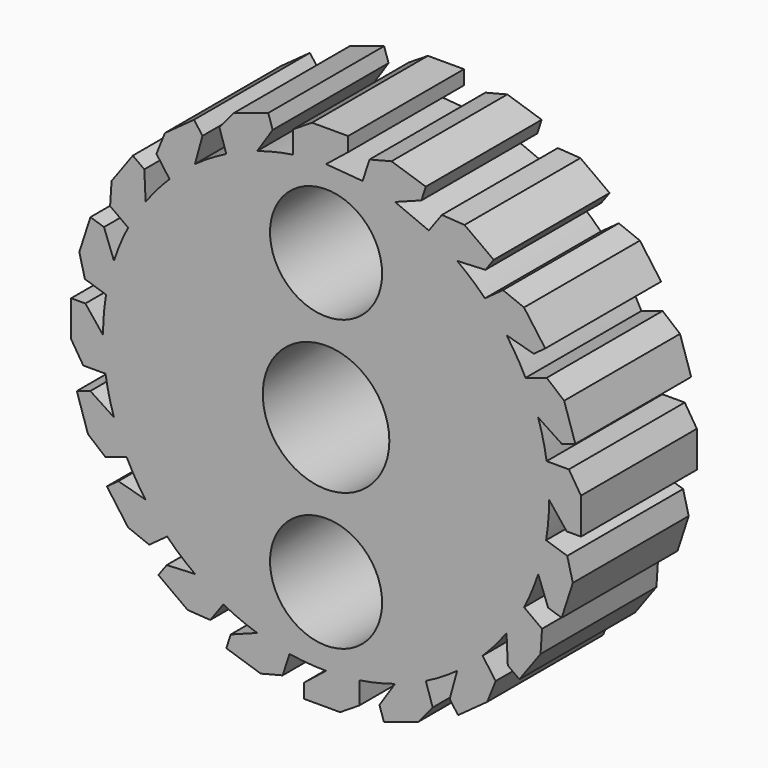
from build123d import *

# Parameters (mm, degrees)
F0_R     = 9.675
F0_R_2   = 10.925
F1_DEPTH = 25


with BuildPart() as f1:
    # F0 (on Front) → F1 (new body)
    with BuildSketch(Plane.XZ):
        with BuildLine():
            Line((3.806459, 44), (-2.426446, 44))
            Line((-2.426446, 44), (-5.736627, 41.90996))
            Line((-5.736627, 41.90996), (-5.736627, 38.070213))
            ThreePointArc((-5.736627, 38.070213), (-8.846834, 37.469768), (-11.897154, 36.615676))
            Line((-11.897154, 36.615676), (-9.217365, 40.686093))
            Line((-9.217365, 40.686093), (-9.97659, 43.022747))
            Line((-9.97659, 43.022747), (-15.904435, 41.096674))
            Line((-15.904435, 41.096674), (-18.406746, 38.086026))
            Line((-18.406746, 38.086026), (-17.220199, 34.434209))
            ThreePointArc((-17.220199, 34.434209), (-19.992635, 32.902045), (-22.629732, 31.147154))
            Line((-22.629732, 31.147154), (-21.338929, 35.846452))
            Line((-21.338929, 35.846452), (-22.783061, 37.834129))
            Line((-22.783061, 37.834129), (-27.825587, 34.170519))
            Line((-27.825587, 34.170519), (-29.275085, 30.533966))
            Line((-29.275085, 30.533966), (-27.018138, 27.427545))
            ThreePointArc((-27.018138, 27.427545), (-29.181416, 25.11364), (-31.147154, 22.629732))
            Line((-31.147154, 22.629732), (-31.37169, 27.49791))
            Line((-31.37169, 27.49791), (-33.359367, 28.942042))
            Line((-33.359367, 28.942042), (-37.022977, 23.899515))
            Line((-37.022977, 23.899515), (-37.277775, 19.993028))
            Line((-37.277775, 19.993028), (-34.171354, 17.736081))
            ThreePointArc((-34.171354, 17.736081), (-35.513718, 14.866938), (-36.615676, 11.897154))
            Line((-36.615676, 11.897154), (-38.333572, 16.457681))
            Line((-38.333572, 16.457681), (-40.670226, 17.216906))
            Line((-40.670226, 17.216906), (-42.5963, 11.289061))
            Line((-42.5963, 11.289061), (-41.631456, 7.495034))
            Line((-41.631456, 7.495034), (-37.979639, 6.308487))
            ThreePointArc((-37.979639, 6.308487), (-38.369689, 3.164956), (-38.5, 0))
            Line((-38.5, 0), (-41.543096, 3.806459))
            Line((-41.543096, 3.806459), (-44, 3.806459))
            Line((-44, 3.806459), (-44, -2.426446))
            Line((-44, -2.426446), (-41.90996, -5.736627))
            Line((-41.90996, -5.736627), (-38.070213, -5.736627))
            ThreePointArc((-38.070213, -5.736627), (-37.469768, -8.846834), (-36.615676, -11.897154))
            Line((-36.615676, -11.897154), (-40.686093, -9.217365))
            Line((-40.686093, -9.217365), (-43.022747, -9.97659))
            Line((-43.022747, -9.97659), (-41.096674, -15.904435))
            Line((-41.096674, -15.904435), (-38.086026, -18.406746))
            Line((-38.086026, -18.406746), (-34.434209, -17.220199))
            ThreePointArc((-34.434209, -17.220199), (-32.902045, -19.992635), (-31.147154, -22.629732))
            Line((-31.147154, -22.629732), (-35.846452, -21.338929))
            Line((-35.846452, -21.338929), (-37.834129, -22.783061))
            Line((-37.834129, -22.783061), (-34.170519, -27.825587))
            Line((-34.170519, -27.825587), (-30.533966, -29.275085))
            Line((-30.533966, -29.275085), (-27.427545, -27.018138))
            ThreePointArc((-27.427545, -27.018138), (-25.11364, -29.181416), (-22.629732, -31.147154))
            Line((-22.629732, -31.147154), (-27.49791, -31.37169))
            Line((-27.49791, -31.37169), (-28.942042, -33.359367))
            Line((-28.942042, -33.359367), (-23.899515, -37.022977))
            Line((-23.899515, -37.022977), (-19.993028, -37.277775))
            Line((-19.993028, -37.277775), (-17.736081, -34.171354))
            ThreePointArc((-17.736081, -34.171354), (-14.866938, -35.513718), (-11.897154, -36.615676))
            Line((-11.897154, -36.615676), (-16.457681, -38.333572))
            Line((-16.457681, -38.333572), (-17.216906, -40.670226))
            Line((-17.216906, -40.670226), (-11.289061, -42.5963))
            Line((-11.289061, -42.5963), (-7.495034, -41.631456))
            Line((-7.495034, -41.631456), (-6.308487, -37.979639))
            ThreePointArc((-6.308487, -37.979639), (-3.164956, -38.369689), (0, -38.5))
            Line((0, -38.5), (-3.806459, -41.543096))
            Line((-3.806459, -41.543096), (-3.806459, -44))
            Line((-3.806459, -44), (2.426446, -44))
            Line((2.426446, -44), (5.736627, -41.90996))
            Line((5.736627, -41.90996), (5.736627, -38.070213))
            ThreePointArc((5.736627, -38.070213), (8.846834, -37.469768), (11.897154, -36.615676))
            Line((11.897154, -36.615676), (9.217365, -40.686093))
            Line((9.217365, -40.686093), (9.97659, -43.022747))
            Line((9.97659, -43.022747), (15.904435, -41.096674))
            Line((15.904435, -41.096674), (18.406746, -38.086026))
            Line((18.406746, -38.086026), (17.220199, -34.434209))
            ThreePointArc((17.220199, -34.434209), (19.992635, -32.902045), (22.629732, -31.147154))
            Line((22.629732, -31.147154), (21.338929, -35.846452))
            Line((21.338929, -35.846452), (22.783061, -37.834129))
            Line((22.783061, -37.834129), (27.825587, -34.170519))
            Line((27.825587, -34.170519), (29.275085, -30.533966))
            Line((29.275085, -30.533966), (27.018138, -27.427545))
            ThreePointArc((27.018138, -27.427545), (29.181416, -25.11364), (31.147154, -22.629732))
            Line((31.147154, -22.629732), (31.37169, -27.49791))
            Line((31.37169, -27.49791), (33.359367, -28.942042))
            Line((33.359367, -28.942042), (37.022977, -23.899515))
            Line((37.022977, -23.899515), (37.277775, -19.993028))
            Line((37.277775, -19.993028), (34.171354, -17.736081))
            ThreePointArc((34.171354, -17.736081), (35.513718, -14.866938), (36.615676, -11.897154))
            Line((36.615676, -11.897154), (38.333572, -16.457681))
            Line((38.333572, -16.457681), (40.670226, -17.216906))
            Line((40.670226, -17.216906), (42.5963, -11.289061))
            Line((42.5963, -11.289061), (41.631456, -7.495034))
            Line((41.631456, -7.495034), (37.979639, -6.308487))
            ThreePointArc((37.979639, -6.308487), (38.369689, -3.164956), (38.5, 0))
            Line((38.5, 0), (41.543096, -3.806459))
            Line((41.543096, -3.806459), (44, -3.806459))
            Line((44, -3.806459), (44, 2.426446))
            Line((44, 2.426446), (41.90996, 5.736627))
            Line((41.90996, 5.736627), (38.070213, 5.736627))
            ThreePointArc((38.070213, 5.736627), (37.469768, 8.846834), (36.615676, 11.897154))
            Line((36.615676, 11.897154), (40.686093, 9.217365))
            Line((40.686093, 9.217365), (43.022747, 9.97659))
            Line((43.022747, 9.97659), (41.096674, 15.904435))
            Line((41.096674, 15.904435), (38.086026, 18.406746))
            Line((38.086026, 18.406746), (34.434209, 17.220199))
            ThreePointArc((34.434209, 17.220199), (32.902045, 19.992635), (31.147154, 22.629732))
            Line((31.147154, 22.629732), (35.846452, 21.338929))
            Line((35.846452, 21.338929), (37.834129, 22.783061))
            Line((37.834129, 22.783061), (34.170519, 27.825587))
            Line((34.170519, 27.825587), (30.533966, 29.275085))
            Line((30.533966, 29.275085), (27.427545, 27.018138))
            ThreePointArc((27.427545, 27.018138), (25.11364, 29.181416), (22.629732, 31.147154))
            Line((22.629732, 31.147154), (27.49791, 31.37169))
            Line((27.49791, 31.37169), (28.942042, 33.359367))
            Line((28.942042, 33.359367), (23.899515, 37.022977))
            Line((23.899515, 37.022977), (19.993028, 37.277775))
            Line((19.993028, 37.277775), (17.736081, 34.171354))
            Line((17.736081, 34.171354), (11.897154, 36.615676))
            Line((11.897154, 36.615676), (16.457681, 38.333572))
            Line((16.457681, 38.333572), (17.216906, 40.670226))
            Line((17.216906, 40.670226), (11.289061, 42.5963))
            Line((11.289061, 42.5963), (7.495034, 41.631456))
            Line((7.495034, 41.631456), (6.308487, 37.979639))
            Line((6.308487, 37.979639), (0, 38.5))
            Line((0, 38.5), (3.806459, 41.543096))
            Line((3.806459, 41.543096), (3.806459, 44))
        make_face()
        with Locations((0, -25)):
            Circle(F0_R, mode=Mode.SUBTRACT)
        Circle(F0_R_2, mode=Mode.SUBTRACT)
        with Locations((0, 25)):
            Circle(F0_R, mode=Mode.SUBTRACT)
    extrude(amount=F1_DEPTH)


solid = f1.part
